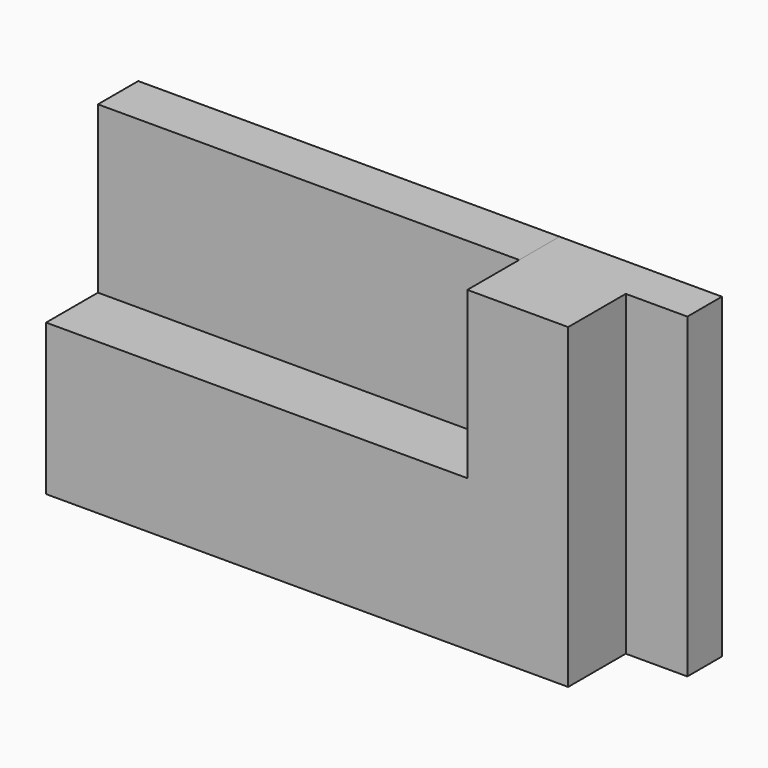
from build123d import *

# Parameters (mm, degrees)
F1_DEPTH = 25.4
F0_W     = 92.877152
F0_H     = 36.552329
F2_DEPTH = 11.1125
F0_W_2   = 13.582083
F0_H_2   = 69.85
F3_DEPTH = 9.525


with BuildPart() as f1:
    # F0 (on Front) → F1 (new body)
    with BuildSketch(Plane.XZ):
        Polygon((27.975522, 5.506429), (-64.90163, 5.506429), (-64.90163, -27.791242), (50.200522, -27.791242), (50.200522, 42.058758), (27.975522, 42.058758), align=None)
    extrude(amount=F1_DEPTH)

    # F0 (on Front) → F2 (join)
    with BuildSketch(Plane.XZ):
        with Locations((-18.463054, 23.782593)):
            Rectangle(F0_W, F0_H)
    extrude(amount=F2_DEPTH)

    # F0 (on Front) → F3 (join)
    with BuildSketch(Plane.XZ):
        with Locations((56.991563, 7.133758)):
            Rectangle(F0_W_2, F0_H_2)
    extrude(amount=F3_DEPTH)


solid = f1.part
